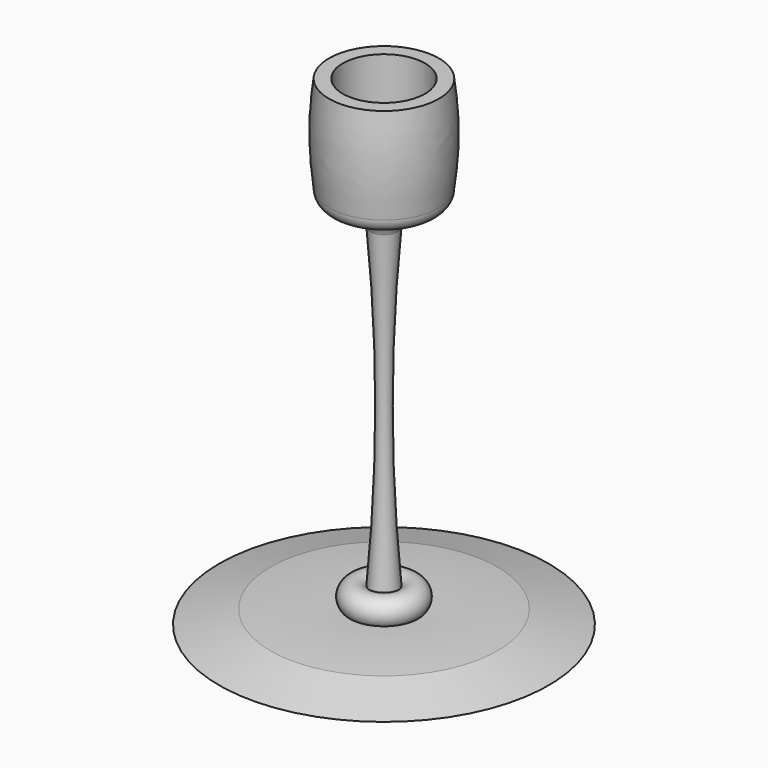
from build123d import *


with BuildPart() as f1:
    # F0 (on Front) → F1 (revolve)
    with BuildSketch(Plane.XZ):
        with BuildLine():
            Line((-48, 0), (0, 0))
            Line((0, 0), (0, 112))
            Line((0, 112), (-0.880817, 112))
            Line((-0.880817, 112), (-12, 112))
            Line((-12, 112), (-12, 140))
            Line((-12, 140), (-16, 140))
            ThreePointArc((-16, 140), (-17, 126), (-16, 112))
            ThreePointArc((-16, 112), (-14.828427, 109.171573), (-12, 108))
            ThreePointArc((-12, 108), (-6.994972, 106.340038), (-4, 102))
            ThreePointArc((-4, 102), (-2, 56), (-4, 10))
            ThreePointArc((-4, 10), (-9.532891, 10.237207), (-10, 4.718968))
            ThreePointArc((-10, 4.718968), (-21.546279, 4.692615), (-33.071797, 4))
            Line((-33.071797, 4), (-48, 0))
        make_face()
        Polygon((-0.880817, 112), (0, 112), (0, 126), align=None)
    revolve(axis=Axis((0, 0, 56), (0, 0, 1)))


solid = f1.part
